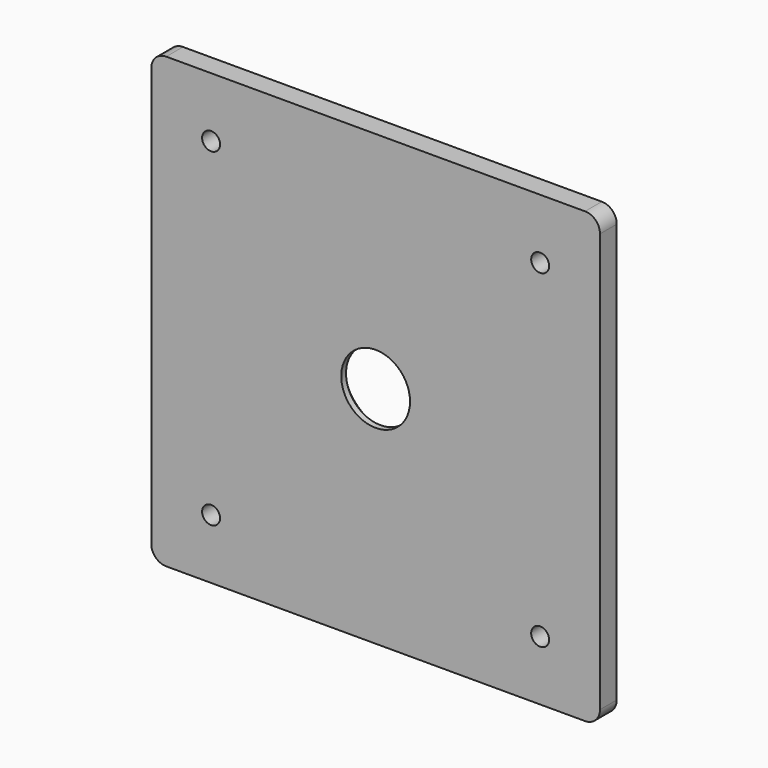
from build123d import *

# Parameters (mm, degrees)
F0_W     = 150
F0_H     = 150
F0_R     = 3
F0_R_2   = 11.5
F1_DEPTH = 7
F2_SIZE  = 5
F3_R     = 5


with BuildPart() as f1:
    # F0 (on Front) → F1 (new body)
    with BuildSketch(Plane.XZ):
        Rectangle(F0_W, F0_H)
        with Locations((-55, -55)):
            Circle(F0_R, mode=Mode.SUBTRACT)
        with Locations((55, -55)):
            Circle(F0_R, mode=Mode.SUBTRACT)
        with Locations((-55, 55)):
            Circle(F0_R, mode=Mode.SUBTRACT)
        Circle(F0_R_2, mode=Mode.SUBTRACT)
        with Locations((55, 55)):
            Circle(F0_R, mode=Mode.SUBTRACT)
    extrude(amount=F1_DEPTH)

    # F2
    f2_edges = [f1.edges().sort_by_distance(p)[0] for p in [
        (-11.5, 0, 0),
    ]]
    chamfer(f2_edges, length=F2_SIZE)

    # F3
    f3_edges = [f1.edges().sort_by_distance(p)[0] for p in [
        (75, -3.5, 75),
        (-75, -3.5, 75),
        (-75, -3.5, -75),
        (75, -3.5, -75),
    ]]
    fillet(f3_edges, radius=F3_R)


solid = f1.part
